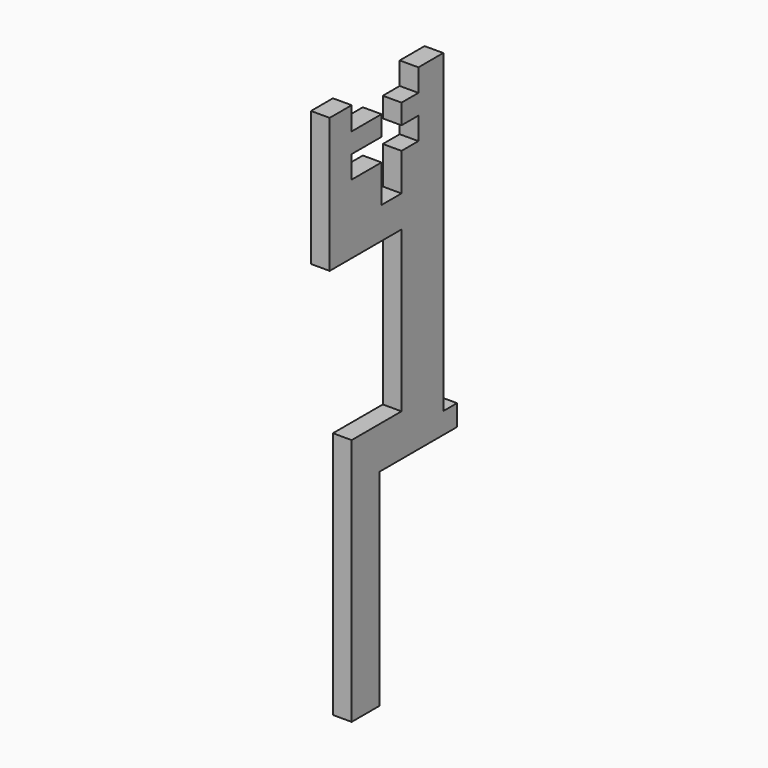
from build123d import *

# Parameters (mm, degrees)
F1_DEPTH = 3


with BuildPart() as f1:
    # F0 (on Right) → F1 (new body)
    with BuildSketch(Plane.YZ):
        Polygon((0, 39.784912), (0, 0), (5.631864, 0), (5.631864, 33.050187), (21.127917, 33.050187), (21.127917, 36.418896), (18.364444, 36.418896), (18.364444, 86.97556), (13.37989, 86.97556), (13.37989, 83.370075), (9.992642, 83.370075), (9.992642, 80.1652), (13.37989, 80.1652), (13.37989, 76.559722), (9.992642, 76.559722), (9.992642, 70.550583), (5.986553, 70.550583), (5.986553, 76.559722), (0, 76.559722), (0, 80.1652), (5.986553, 80.1652), (5.986553, 83.370075), (0, 83.370075), (0, 87.072618), (-4.40907, 87.072618), (-4.40907, 65.46703), (9.992642, 65.46703), (9.992642, 39.784912), align=None)
    extrude(amount=F1_DEPTH)


solid = f1.part
